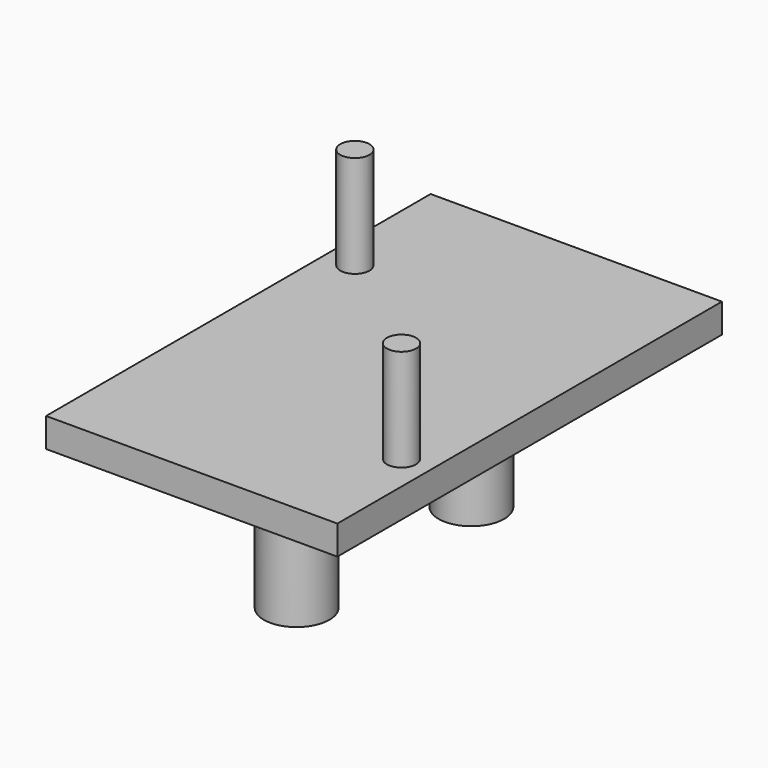
from build123d import *

# Parameters (mm, degrees)
SKETCH001_R      = 2.25
EXTRUDE001_DEPTH = 10
SKETCH_R         = 1
EXTRUDE_DEPTH    = 7
BOX_W            = 20
BOX_H            = 33
BOX_DEPTH        = 2


with BuildPart() as extrude001:
    # Sketch001 (on Face5 of Fusion) → Extrude001 (new body)
    with BuildSketch(Plane(origin=(0, 0, 0), x_dir=(1, 0, 0), z_dir=(0, 0, -1))):
        with Locations((10, -9)):
            Circle(SKETCH001_R)
        with Locations((10, -24)):
            Circle(SKETCH001_R)
    extrude(amount=EXTRUDE001_DEPTH)


with BuildPart() as extrude_body:
    # Sketch (on Face6 of Box) → Extrude (new body)
    with BuildSketch(Plane.XY.offset(2)):
        with Locations((18, 8)):
            Circle(SKETCH_R)
        with Locations((2, 24)):
            Circle(SKETCH_R)
    extrude(amount=EXTRUDE_DEPTH)


with BuildPart() as fusion001:
    # Box → Box (new body)
    with BuildSketch(Plane.XY):
        with Locations((10, 16.5)):
            Rectangle(BOX_W, BOX_H)
    extrude(amount=BOX_DEPTH)

    # Fusion: union Extrude body
    add(extrude_body.part)

    # Fusion001: union Extrude001
    add(extrude001.part)


solid = fusion001.part
